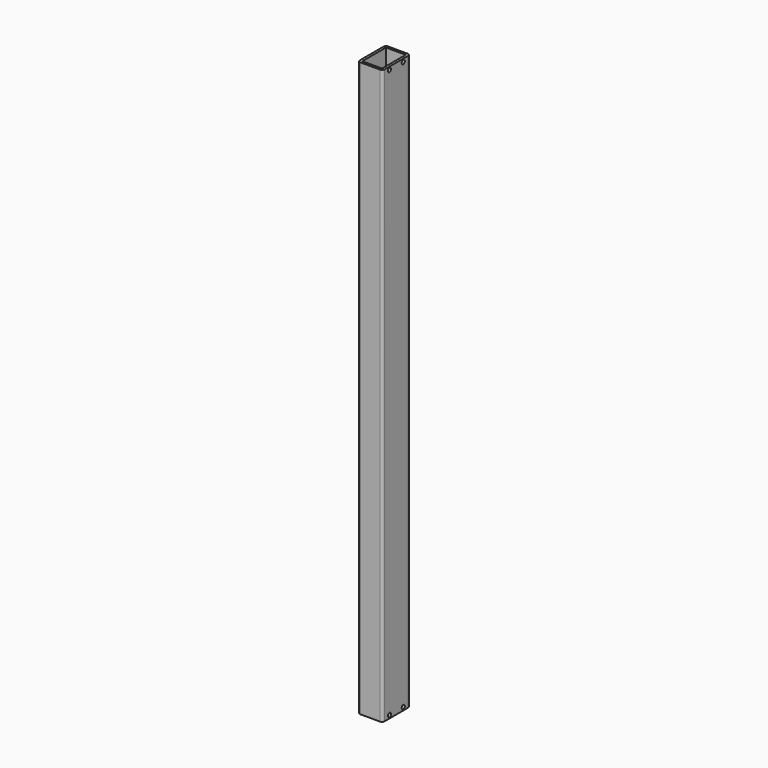
from build123d import *

# Parameters (mm, degrees)
F0_W     = 50.8
F0_H     = 76.2
F1_DEPTH = 1476.268
F2_R     = 5
F3_DEPTH = 15.31509


with BuildPart() as f1:
    # F0 (on Top) → F1 (new body)
    with BuildSketch(Plane.XY):
        with BuildLine():
            ThreePointArc((-30.180745, -55.463393), (-28.320873, -59.953521), (-23.830745, -61.813393))
            Line((-23.830745, -61.813393), (26.969255, -61.813393))
            ThreePointArc((26.969255, -61.813393), (31.459383, -59.953521), (33.319255, -55.463393))
            Line((33.319255, -55.463393), (33.319255, 20.736607))
            ThreePointArc((33.319255, 20.736607), (31.459383, 25.226735), (26.969255, 27.086607))
            Line((26.969255, 27.086607), (-23.830745, 27.086607))
            ThreePointArc((-23.830745, 27.086607), (-28.320873, 25.226735), (-30.180745, 20.736607))
            Line((-30.180745, 20.736607), (-30.180745, -55.463393))
        make_face()
        with Locations((1.569255, -17.363393)):
            Rectangle(F0_W, F0_H, mode=Mode.SUBTRACT)
    extrude(amount=F1_DEPTH)

    # F2 (on face) → F3 (cut)
    with BuildSketch(Plane.YZ.offset(33.319255)):
        with Locations((4.861607, 7.938)):
            Circle(F2_R)
        with Locations((-39.588393, 7.938)):
            Circle(F2_R)
        with Locations((4.861607, 1468.33)):
            Circle(F2_R)
        with Locations((-39.588393, 1468.33)):
            Circle(F2_R)
    extrude(amount=-F3_DEPTH, mode=Mode.SUBTRACT)


solid = f1.part
